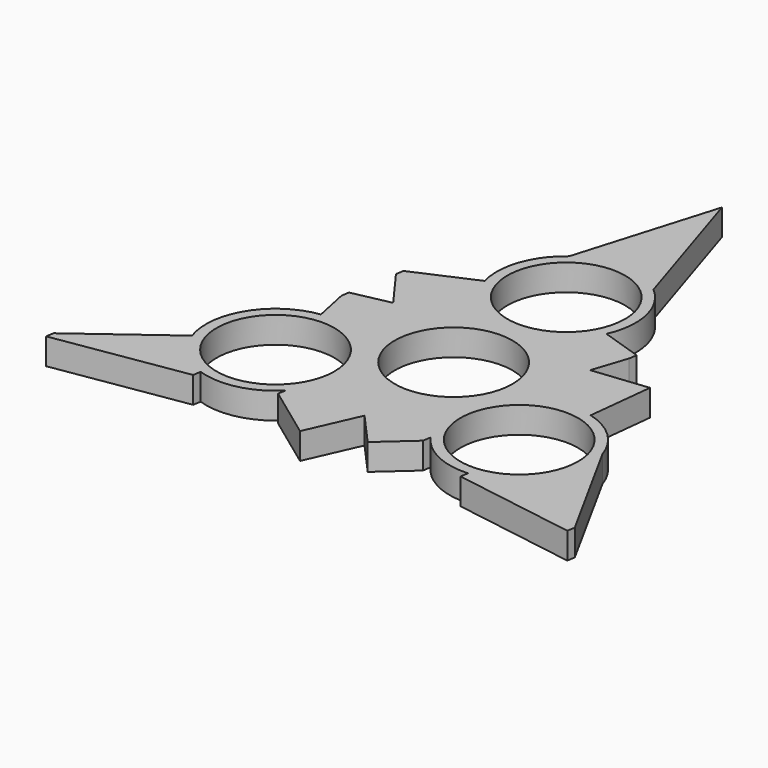
from build123d import *

# Parameters (mm, degrees)
F0_R     = 11.2
F1_DEPTH = 5
F2_DEPTH = 1.5


with BuildPart() as f1:
    # F0 (on Top) → F1 (new body)
    with BuildSketch(Plane.XY):
        with BuildLine():
            Line((19.8292478766, 18.7391326068), (12.019146986, 21.3037386799))
            ThreePointArc((12.019146986, 21.3037386799), (12.8834926091, 29.6341129855), (8.5614465057, 36.807825198))
            ThreePointArc((8.5614465057, 36.807825198), (0.4252472579, 39.9540022295), (-7.8966710373, 37.3383103516))
            ThreePointArc((-7.8966710373, 37.3383103516), (-12.4785048645, 31.0651442851), (-12.7385668251, 23.3012418196))
            Line((-12.7385668251, 23.3012418196), (-24.16729182, 18.2728301734))
            Line((-24.16729182, 18.2728301734), (-17.8012736142, 9.5490273088))
            Line((-17.8012736142, 9.5490273088), (-26.1431888207, 7.8030660957))
            Line((-26.1431888207, 7.8030660957), (-24.4591523854, -0.2429827182))
            ThreePointArc((-24.4591523854, -0.2429827182), (-34.257920026, -6.2095327762), (-35.6854263912, -17.5927569437))
            ThreePointArc((-35.6854263912, -17.5927569437), (-32.5191731961, -22.7044417143), (-27.414141389, -25.8814105115))
            ThreePointArc((-27.414141389, -25.8814105115), (-20.154107372, -26.2299680627), (-13.8101839429, -22.6825433882))
            Line((-13.8101839429, -22.6825433882), (-3.7410892192, -30.0659037435))
            Line((-3.7410892192, -30.0659037435), (0.6309365762, -20.190868824))
            Line((0.6309365762, -20.190868824), (6.3139409441, -26.5421987025))
            Line((6.3139409441, -26.5421987025), (12.4400053994, -21.0607559617))
            ThreePointArc((12.4400053994, -21.0607559617), (17.4984717531, -25.2972406894), (23.9754292514, -26.5561712933))
            ThreePointArc((23.9754292514, -26.5561712933), (34.0938615727, -20.7987226024), (35.7196142534, -9.2710248144))
            ThreePointArc((35.7196142534, -9.2710248144), (32.2340037157, -3.7791277286), (26.5487507681, -0.6186984314))
            Line((26.5487507681, -0.6186984314), (27.9083810392, 11.7930735701))
            Line((27.9083810392, 11.7930735701), (17.170337038, 10.6418415152))
            Line((17.170337038, 10.6418415152), (19.8292478766, 18.7391326068))
        make_face()
        with Locations((-23.1755792411, -13.3804269135)):
            Circle(F0_R, mode=Mode.SUBTRACT)
        with Locations((23.1755792411, -13.3804269135)):
            Circle(F0_R, mode=Mode.SUBTRACT)
        Circle(F0_R, mode=Mode.SUBTRACT)
        with Locations((0, 26.760853827)):
            Circle(F0_R, mode=Mode.SUBTRACT)
        with BuildLine():
            ThreePointArc((-27.414141389, -25.8814105115), (-32.5191731961, -22.7044417143), (-35.6854263912, -17.5927569437))
            Line((-35.6854263912, -17.5927569437), (-52.2249266505, -29.8259742558))
            Line((-52.2249266505, -29.8259742558), (-27.414141389, -25.8814105115))
        make_face()
        with BuildLine():
            Line((47.2735762596, -30.2975326777), (35.7196142534, -9.2710248144))
            ThreePointArc((35.7196142534, -9.2710248144), (34.0938615727, -20.7987226024), (23.9754292514, -26.5561712933))
            Line((23.9754292514, -26.5561712933), (47.2735762596, -30.2975326777))
        make_face()
        with BuildLine():
            ThreePointArc((-7.8966710373, 37.3383103516), (0.4252472579, 39.9540022295), (8.5614465057, 36.807825198))
            Line((8.5614465057, 36.807825198), (0, 63.7780725956))
            Line((0, 63.7780725956), (-7.8966710373, 37.3383103516))
        make_face()
    extrude(amount=F1_DEPTH)

    # F2 (add): faces of the model
    f2_faces = [f1.faces().sort_by_distance(p)[0] for p in [
        (35.6245027555, -28.4268519855, 2.5),
        (41.4965952565, -19.784278746, 2.5),
        (18.4997924573, 14.690487061, 2.5),
        (4.2807232528, 50.2929488968, 2.5),
        (-39.8195340198, -27.8536923837, 2.5),
        (-1.5550763215, -25.1283862838, 2.5),
        (9.3769731717, -23.8014773321, 2.5),
        (-8.775636581, -26.3742235658, 2.5),
        (22.5393590386, 11.2174575427, 2.5),
        (27.2285659036, 5.5871875694, 2.5),
        (3.4724387602, -23.3665337633, 2.5),
        (-25.3011706031, 3.7800416887, 2.5),
        (-20.9842827171, 13.9109287411, 2.5),
        (-3.9483355186, 50.5581914736, 2.5),
        (-18.4529293226, 20.7870359965, 2.5),
        (-21.9722312174, 8.6760467023, 2.5),
        (15.9241974313, 20.0214356434, 2.5),
    ]]
    extrude(f2_faces, amount=F2_DEPTH, dir=(-0.1585548331, -0.9873501734, 0))


solid = f1.part
